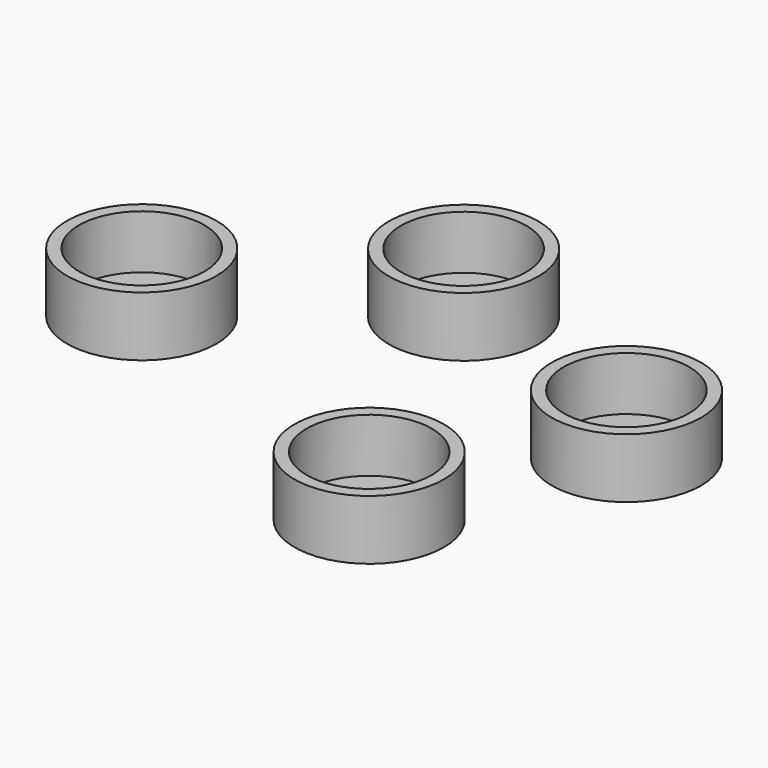
from build123d import *

# Parameters (mm, degrees)
F0_R     = 12.5
F0_R_2   = 10.5
F1_DEPTH = 10
F2_DEPTH = 1


with BuildPart() as f1:
    # F0 (on Top) → F1 (new body)
    with BuildSketch(Plane.XY):
        with Locations((-41.019704, -28.166527)):
            Circle(F0_R)
        with Locations((-41.019704, -28.166527)):
            Circle(F0_R_2, mode=Mode.SUBTRACT)
        with Locations((-8.089549, -2.000385)):
            Circle(F0_R)
        with Locations((-8.089549, -2.000385)):
            Circle(F0_R_2, mode=Mode.SUBTRACT)
        with Locations((33.497244, -19.92899)):
            Circle(F0_R)
        with Locations((33.497244, -19.92899)):
            Circle(F0_R_2, mode=Mode.SUBTRACT)
        with Locations((18.161585, -54.564254)):
            Circle(F0_R)
        with Locations((18.161585, -54.564254)):
            Circle(F0_R_2, mode=Mode.SUBTRACT)
    extrude(amount=F1_DEPTH)

    # F0 (on Top) → F2 (join)
    with BuildSketch(Plane.XY):
        with Locations((-41.019704, -28.166527)):
            Circle(F0_R_2)
        with Locations((-8.089549, -2.000385)):
            Circle(F0_R_2)
        with Locations((33.497244, -19.92899)):
            Circle(F0_R_2)
        with Locations((18.161585, -54.564254)):
            Circle(F0_R_2)
    extrude(amount=F2_DEPTH)


solid = f1.part
